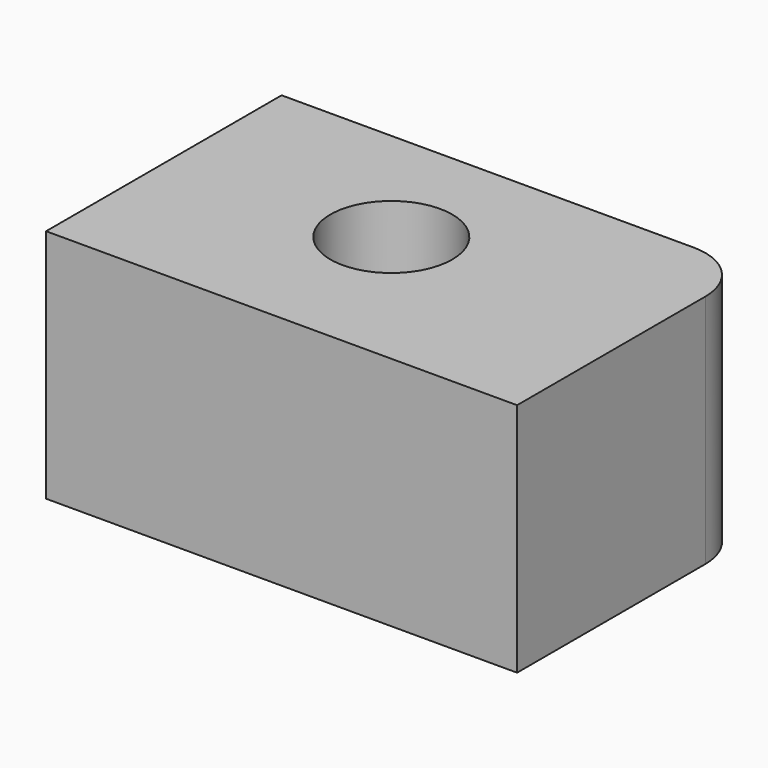
from build123d import *

# Parameters (mm, degrees)
F0_R     = 26.300006
F1_DEPTH = 101.6


with BuildPart() as f1:
    # F0 (on Top) → F1 (new body)
    with BuildSketch(Plane.XY):
        with BuildLine():
            Line((0, 127), (0, 0))
            Line((0, 0), (203.2, 0))
            Line((203.2, 0), (203.2, 101.6))
            ThreePointArc((203.2, 101.6), (195.760512, 119.560512), (177.8, 127))
            Line((177.8, 127), (0, 127))
        make_face()
        with Locations((93.450926, 69.365256)):
            Circle(F0_R, mode=Mode.SUBTRACT)
    extrude(amount=F1_DEPTH)


solid = f1.part
